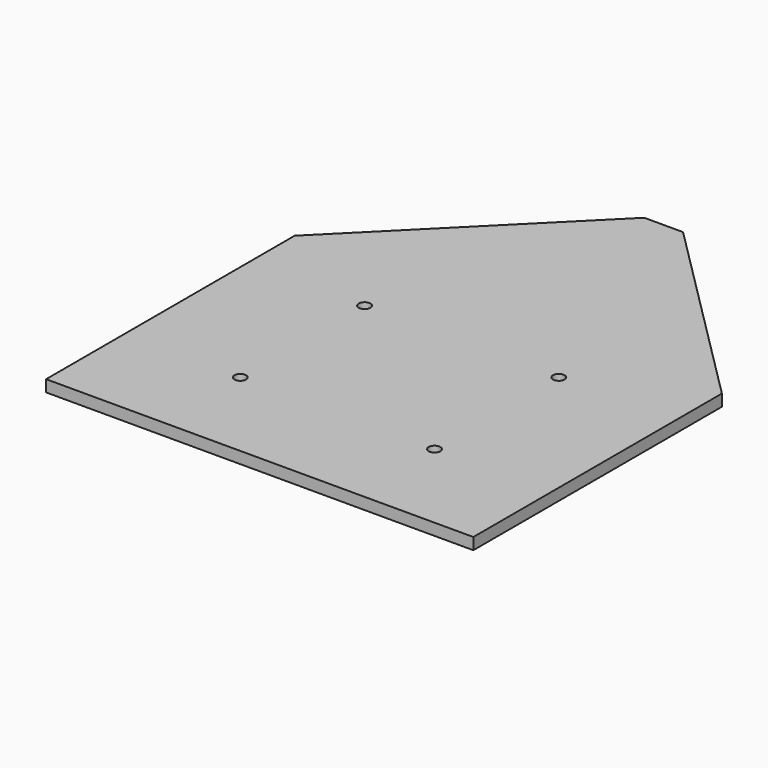
from build123d import *

# Parameters (mm, degrees)
F0_W     = 55
F0_H     = 130
F1_DEPTH = 3
F3_D     = 3
F4_SIZE  = 50


with BuildPart() as f1:
    # F0 (on Top) → F1 (new body)
    with BuildSketch(Plane.XY):
        with Locations((27.5, 65)):
            Rectangle(F0_W, F0_H)
    extrude(amount=F1_DEPTH)

    # F3 (through all)
    with Locations(Plane.XY.offset(3)):
        with Locations((25, 25), (25, 65)):
            Hole(F3_D / 2)

    # F4
    f4_edges = [f1.edges().sort_by_distance(p)[0] for p in [
        (55, 130, 1.5),
    ]]
    chamfer(f4_edges, length=F4_SIZE)

    # F5: F1 across plane


with BuildPart() as f1_1:
    add(f1.part)
    add(f1.part.mirror(Plane.YZ))


solid = f1_1.part
